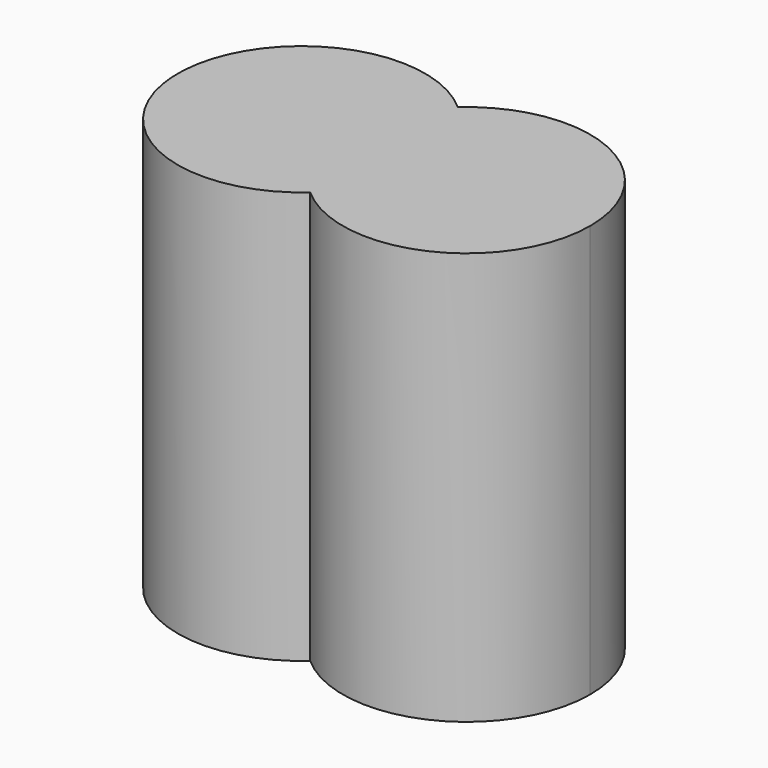
from build123d import *

# Parameters (mm, degrees)
F1_DEPTH = 6


with BuildPart() as f1:
    # F0 (on Top) → F1 (new body)
    with BuildSketch(Plane.XY):
        with BuildLine():
            ThreePointArc((0.004915, -1.341641), (0.448082, -0.734847), (0.604915, 0))
            ThreePointArc((0.604915, 0), (0.448082, 0.734847), (0.004915, 1.341641))
            ThreePointArc((0.004915, 1.341641), (-0.595085, 0), (0.004915, -1.341641))
        make_face()
        with BuildLine():
            ThreePointArc((0.004915, -1.341641), (-0.595085, 0), (0.004915, 1.341641))
            ThreePointArc((0.004915, 1.341641), (-2.995085, 0), (0.004915, -1.341641))
        make_face()
        with BuildLine():
            ThreePointArc((0.004915, 1.341641), (0.448082, 0.734847), (0.604915, 0))
            ThreePointArc((0.604915, 0), (0.448082, -0.734847), (0.004915, -1.341641))
            ThreePointArc((0.004915, -1.341641), (1.939761, -1.643168), (3.004915, 0))
            ThreePointArc((3.004915, 0), (1.939761, 1.643168), (0.004915, 1.341641))
        make_face()
    extrude(amount=F1_DEPTH)


solid = f1.part
